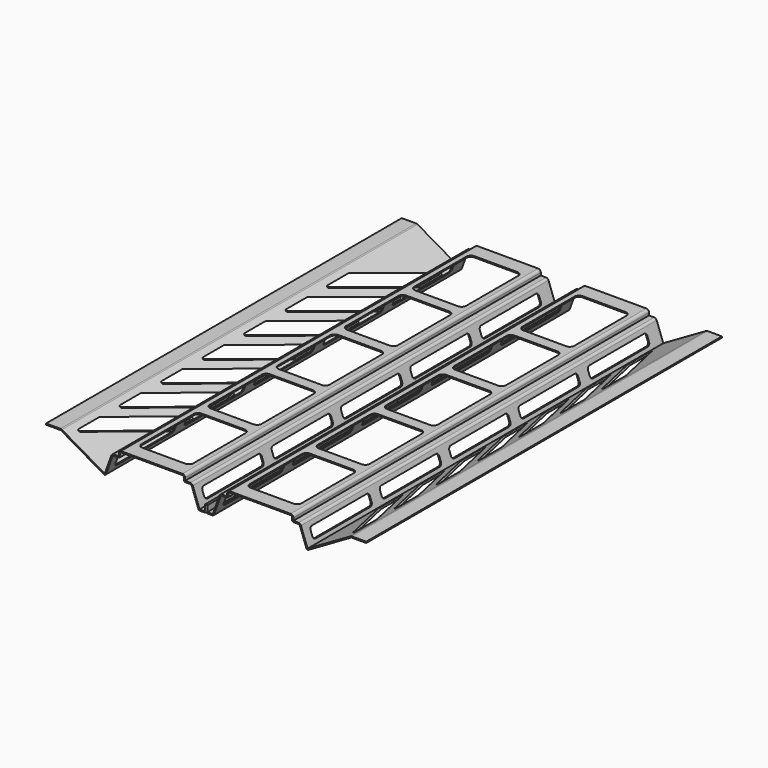
from build123d import *

# Parameters (mm, degrees)
F1_DEPTH  = 300
F3_DEPTH  = 25
F7_DEPTH  = 35
F11_START = -69
F11_DEPTH = 161
F12_START = 69
F12_DEPTH = 181


with BuildPart() as f1:
    # F0 (on Front) → F1 (new body)
    with BuildSketch(Plane.XZ):
        with BuildLine():
            Line((-4.2997924618, 0), (-0.8, 0))
            ThreePointArc((-0.8, 0), (-0.2343145751, 0.2343145751), (0, 0.8))
            Line((0, 0.8), (0, 4.9041542225))
            Line((0, 4.9041542225), (-0.8, 4.9041542225))
            Line((-0.8, 4.9041542225), (-0.8, 0.8))
            Line((-0.8, 0.8), (-4.4398339694, 0.8))
            Line((-4.4398339694, 0.8), (-9.0087608208, 13.3530233553))
            ThreePointArc((-9.0087608208, 13.3530233553), (-9.6677699528, 14.211860777), (-10.7002075382, 14.5373870973))
            Line((-10.7002075382, 14.5373870973), (-14.2, 14.5373870973))
            Line((-14.2, 14.5373870973), (-14.2, 16.3205080757))
            ThreePointArc((-14.2, 16.3205080757), (-14.7272077939, 17.5933002818), (-16, 18.1205080757))
            Line((-16, 18.1205080757), (-57, 18.1205080757))
            ThreePointArc((-57, 18.1205080757), (-58.2727922061, 17.5933002818), (-58.8, 16.3205080757))
            Line((-58.8, 16.3205080757), (-58.8, 14.5373870973))
            Line((-58.8, 14.5373870973), (-62.2997924618, 14.5373870973))
            ThreePointArc((-62.2997924618, 14.5373870973), (-63.3322300472, 14.211860777), (-63.9912391792, 13.3530233553))
            Line((-63.9912391792, 13.3530233553), (-68.425671109, 1.1695217601))
            Line((-68.425671109, 1.1695217601), (-97.3679491924, 17.8793538025))
            ThreePointArc((-97.3679491924, 17.8793538025), (-97.8020749112, 18.059174563), (-98.2679491924, 18.1205080757))
            Line((-98.2679491924, 18.1205080757), (-108, 18.1205080757))
            Line((-108, 18.1205080757), (-108, 17.3205080757))
            Line((-108, 17.3205080757), (-98.2679491924, 17.3205080757))
            ThreePointArc((-98.2679491924, 17.3205080757), (-98.0091301473, 17.286433902), (-97.7679491924, 17.1865334795))
            Line((-97.7679491924, 17.1865334795), (-69.0320888862, 0.5958767963))
            ThreePointArc((-69.0320888862, 0.5958767963), (-68.1900687429, 0.5222095793), (-67.5923962655, 1.1198820568))
            Line((-67.5923962655, 1.1198820568), (-63.2394850826, 13.0794072406))
            ThreePointArc((-63.2394850826, 13.0794072406), (-62.8733688981, 13.5565391416), (-62.2997924618, 13.7373870973))
            Line((-62.2997924618, 13.7373870973), (-59, 13.7373870973))
            ThreePointArc((-59, 13.7373870973), (-58.2928932188, 14.0302803161), (-58, 14.7373870973))
            Line((-58, 14.7373870973), (-58, 16.3205080757))
            ThreePointArc((-58, 16.3205080757), (-57.7071067812, 17.0276148569), (-57, 17.3205080757))
            Line((-57, 17.3205080757), (-16, 17.3205080757))
            ThreePointArc((-16, 17.3205080757), (-15.2928932188, 17.0276148569), (-15, 16.3205080757))
            Line((-15, 16.3205080757), (-15, 14.7373870973))
            ThreePointArc((-15, 14.7373870973), (-14.7071067812, 14.0302803161), (-14, 13.7373870973))
            Line((-14, 13.7373870973), (-10.7002075382, 13.7373870973))
            ThreePointArc((-10.7002075382, 13.7373870973), (-10.1266311019, 13.5565391416), (-9.7605149174, 13.0794072406))
            Line((-9.7605149174, 13.0794072406), (-5.2394850826, 0.6579798567))
            ThreePointArc((-5.2394850826, 0.6579798567), (-4.8733688981, 0.1808479557), (-4.2997924618, 0))
        make_face()
    extrude(amount=F1_DEPTH)

    # F2 (on face) → F3 (cut)
    with BuildSketch(Plane.XY.offset(18.1205080757)):
        with BuildLine():
            Line((-51, -60), (-22, -60))
            ThreePointArc((-22, -60), (-19.8786796564, -59.1213203436), (-19, -57))
            Line((-19, -57), (-19, -13))
            ThreePointArc((-19, -13), (-19.8786796564, -10.8786796564), (-22, -10))
            Line((-22, -10), (-51, -10))
            ThreePointArc((-51, -10), (-53.1213203436, -10.8786796564), (-54, -13))
            Line((-54, -13), (-54, -57))
            ThreePointArc((-54, -57), (-53.1213203436, -59.1213203436), (-51, -60))
        make_face()
        with BuildLine():
            ThreePointArc((-19, -70.5), (-19.8786796564, -68.3786796564), (-22, -67.5))
            Line((-22, -67.5), (-51, -67.5))
            ThreePointArc((-51, -67.5), (-53.1213203436, -68.3786796564), (-54, -70.5))
            Line((-54, -70.5), (-54, -114.5))
            ThreePointArc((-54, -114.5), (-53.1213203436, -116.6213203436), (-51, -117.5))
            Line((-51, -117.5), (-22, -117.5))
            ThreePointArc((-22, -117.5), (-19.8786796564, -116.6213203436), (-19, -114.5))
            Line((-19, -114.5), (-19, -70.5))
        make_face()
        with BuildLine():
            ThreePointArc((-19, -128), (-19.8786796564, -125.8786796564), (-22, -125))
            Line((-22, -125), (-51, -125))
            ThreePointArc((-51, -125), (-53.1213203436, -125.8786796564), (-54, -128))
            Line((-54, -128), (-54, -172))
            ThreePointArc((-54, -172), (-53.1213203436, -174.1213203436), (-51, -175))
            Line((-51, -175), (-22, -175))
            ThreePointArc((-22, -175), (-19.8786796564, -174.1213203436), (-19, -172))
            Line((-19, -172), (-19, -128))
        make_face()
        with BuildLine():
            ThreePointArc((-19, -185.5), (-19.8786796564, -183.3786796564), (-22, -182.5))
            Line((-22, -182.5), (-51, -182.5))
            ThreePointArc((-51, -182.5), (-53.1213203436, -183.3786796564), (-54, -185.5))
            Line((-54, -185.5), (-54, -229.5))
            ThreePointArc((-54, -229.5), (-53.1213203436, -231.6213203436), (-51, -232.5))
            Line((-51, -232.5), (-22, -232.5))
            ThreePointArc((-22, -232.5), (-19.8786796564, -231.6213203436), (-19, -229.5))
            Line((-19, -229.5), (-19, -185.5))
        make_face()
        with BuildLine():
            ThreePointArc((-19, -243), (-19.8786796564, -240.8786796564), (-22, -240))
            Line((-22, -240), (-51, -240))
            ThreePointArc((-51, -240), (-53.1213203436, -240.8786796564), (-54, -243))
            Line((-54, -243), (-54, -287))
            ThreePointArc((-54, -287), (-53.1213203436, -289.1213203436), (-51, -290))
            Line((-51, -290), (-22, -290))
            ThreePointArc((-22, -290), (-19.8786796564, -289.1213203436), (-19, -287))
            Line((-19, -287), (-19, -243))
        make_face()
    extrude(amount=-F3_DEPTH, mode=Mode.SUBTRACT)

    # F6 (on offset) → F7 (cut, symmetric)
    with BuildSketch(Plane.YZ.offset(-36.5)):
        with BuildLine():
            Line((-60, 8.6545602513), (-60, 5.4984631039))
            add(Edge.make_bspline(
                [(-60, 5.4984631039), (-60, 3.6190778624), (-58, 3.6190778624)],
                knots=[3.1415926536, 3.1415926536, 3.1415926536, 4.7123889804, 4.7123889804, 4.7123889804], degree=2, weights=[1, 0.7071067812, 1]))
            Line((-58, 3.6190778624), (-12, 3.6190778624))
            add(Edge.make_bspline(
                [(-12, 3.6190778624), (-10, 3.6190778624), (-10, 5.4984631039)],
                knots=[4.7123889804, 4.7123889804, 4.7123889804, 6.2831853072, 6.2831853072, 6.2831853072], degree=2, weights=[1, 0.7071067812, 1]))
            Line((-10, 5.4984631039), (-10, 8.6545602513))
            add(Edge.make_bspline(
                [(-10, 8.6545602513), (-10, 10.5339454929), (-12, 10.5339454929)],
                knots=[0, 0, 0, 1.5707963268, 1.5707963268, 1.5707963268], degree=2, weights=[1, 0.7071067812, 1]))
            Line((-12, 10.5339454929), (-58, 10.5339454929))
            add(Edge.make_bspline(
                [(-58, 10.5339454929), (-60, 10.5339454929), (-60, 8.6545602513)],
                knots=[1.5707963268, 1.5707963268, 1.5707963268, 3.1415926536, 3.1415926536, 3.1415926536], degree=2, weights=[1, 0.7071067812, 1]))
        make_face()
        with BuildLine():
            Line((-116.5, 3.6190778624), (-70.5, 3.6190778624))
            add(Edge.make_bspline(
                [(-70.5, 3.6190778624), (-68.5, 3.6190778624), (-68.5, 5.4984631039)],
                knots=[4.7123889804, 4.7123889804, 4.7123889804, 6.2831853072, 6.2831853072, 6.2831853072], degree=2, weights=[1, 0.7071067812, 1]))
            Line((-68.5, 5.4984631039), (-68.5, 8.6545602513))
            add(Edge.make_bspline(
                [(-68.5, 8.6545602513), (-68.5, 10.5339454929), (-70.5, 10.5339454929)],
                knots=[0, 0, 0, 1.5707963268, 1.5707963268, 1.5707963268], degree=2, weights=[1, 0.7071067812, 1]))
            Line((-70.5, 10.5339454929), (-116.5, 10.5339454929))
            add(Edge.make_bspline(
                [(-116.5, 10.5339454929), (-118.5, 10.5339454929), (-118.5, 8.6545602513)],
                knots=[1.5707963268, 1.5707963268, 1.5707963268, 3.1415926536, 3.1415926536, 3.1415926536], degree=2, weights=[1, 0.7071067812, 1]))
            Line((-118.5, 8.6545602513), (-118.5, 5.4984631039))
            add(Edge.make_bspline(
                [(-118.5, 5.4984631039), (-118.5, 3.6190778624), (-116.5, 3.6190778624)],
                knots=[3.1415926536, 3.1415926536, 3.1415926536, 4.7123889804, 4.7123889804, 4.7123889804], degree=2, weights=[1, 0.7071067812, 1]))
        make_face()
        with BuildLine():
            Line((-175, 3.6190778624), (-129, 3.6190778624))
            add(Edge.make_bspline(
                [(-129, 3.6190778624), (-127, 3.6190778624), (-127, 5.4984631039)],
                knots=[4.7123889804, 4.7123889804, 4.7123889804, 6.2831853072, 6.2831853072, 6.2831853072], degree=2, weights=[1, 0.7071067812, 1]))
            Line((-127, 5.4984631039), (-127, 8.6545602513))
            add(Edge.make_bspline(
                [(-127, 8.6545602513), (-127, 10.5339454929), (-129, 10.5339454929)],
                knots=[0, 0, 0, 1.5707963268, 1.5707963268, 1.5707963268], degree=2, weights=[1, 0.7071067812, 1]))
            Line((-129, 10.5339454929), (-175, 10.5339454929))
            add(Edge.make_bspline(
                [(-175, 10.5339454929), (-177, 10.5339454929), (-177, 8.6545602513)],
                knots=[1.5707963268, 1.5707963268, 1.5707963268, 3.1415926536, 3.1415926536, 3.1415926536], degree=2, weights=[1, 0.7071067812, 1]))
            Line((-177, 8.6545602513), (-177, 5.4984631039))
            add(Edge.make_bspline(
                [(-177, 5.4984631039), (-177, 3.6190778624), (-175, 3.6190778624)],
                knots=[3.1415926536, 3.1415926536, 3.1415926536, 4.7123889804, 4.7123889804, 4.7123889804], degree=2, weights=[1, 0.7071067812, 1]))
        make_face()
        with BuildLine():
            Line((-233.5, 3.6190778624), (-187.5, 3.6190778624))
            add(Edge.make_bspline(
                [(-187.5, 3.6190778624), (-185.5, 3.6190778624), (-185.5, 5.4984631039)],
                knots=[4.7123889804, 4.7123889804, 4.7123889804, 6.2831853072, 6.2831853072, 6.2831853072], degree=2, weights=[1, 0.7071067812, 1]))
            Line((-185.5, 5.4984631039), (-185.5, 8.6545602513))
            add(Edge.make_bspline(
                [(-185.5, 8.6545602513), (-185.5, 10.5339454929), (-187.5, 10.5339454929)],
                knots=[0, 0, 0, 1.5707963268, 1.5707963268, 1.5707963268], degree=2, weights=[1, 0.7071067812, 1]))
            Line((-187.5, 10.5339454929), (-233.5, 10.5339454929))
            add(Edge.make_bspline(
                [(-233.5, 10.5339454929), (-235.5, 10.5339454929), (-235.5, 8.6545602513)],
                knots=[1.5707963268, 1.5707963268, 1.5707963268, 3.1415926536, 3.1415926536, 3.1415926536], degree=2, weights=[1, 0.7071067812, 1]))
            Line((-235.5, 8.6545602513), (-235.5, 5.4984631039))
            add(Edge.make_bspline(
                [(-235.5, 5.4984631039), (-235.5, 3.6190778624), (-233.5, 3.6190778624)],
                knots=[3.1415926536, 3.1415926536, 3.1415926536, 4.7123889804, 4.7123889804, 4.7123889804], degree=2, weights=[1, 0.7071067812, 1]))
        make_face()
        with BuildLine():
            Line((-292, 3.6190778624), (-246, 3.6190778624))
            add(Edge.make_bspline(
                [(-246, 3.6190778624), (-244, 3.6190778624), (-244, 5.4984631039)],
                knots=[4.7123889804, 4.7123889804, 4.7123889804, 6.2831853072, 6.2831853072, 6.2831853072], degree=2, weights=[1, 0.7071067812, 1]))
            Line((-244, 5.4984631039), (-244, 8.6545602513))
            add(Edge.make_bspline(
                [(-244, 8.6545602513), (-244, 10.5339454929), (-246, 10.5339454929)],
                knots=[0, 0, 0, 1.5707963268, 1.5707963268, 1.5707963268], degree=2, weights=[1, 0.7071067812, 1]))
            Line((-246, 10.5339454929), (-292, 10.5339454929))
            add(Edge.make_bspline(
                [(-292, 10.5339454929), (-294, 10.5339454929), (-294, 8.6545602513)],
                knots=[1.5707963268, 1.5707963268, 1.5707963268, 3.1415926536, 3.1415926536, 3.1415926536], degree=2, weights=[1, 0.7071067812, 1]))
            Line((-294, 8.6545602513), (-294, 5.4984631039))
            add(Edge.make_bspline(
                [(-294, 5.4984631039), (-294, 3.6190778624), (-292, 3.6190778624)],
                knots=[3.1415926536, 3.1415926536, 3.1415926536, 4.7123889804, 4.7123889804, 4.7123889804], degree=2, weights=[1, 0.7071067812, 1]))
        make_face()
    extrude(amount=F7_DEPTH, both=True, mode=Mode.SUBTRACT)

    # F8: F1 across plane


with BuildPart() as f1_1:
    add(f1.part)
    add(f1.part.mirror(Plane.YZ))

    # F10 (on Right) → F11 (cut)
    with BuildSketch(Plane.YZ.offset(F11_START)):
        with BuildLine():
            add(Edge.make_bspline(
                [(-272.6965940894, 15.6312813296), (-272.9117040335, 15.6865334795), (-273.1535376297, 15.6865334795)],
                knots=[4.2378329981, 4.2378329981, 4.2378329981, 4.7123889804, 4.7123889804, 4.7123889804], degree=2, weights=[1, 0.9719814042, 1]))
            Line((-273.1535376297, 15.6865334795), (-290.6611710527, 15.6865334795))
            add(Edge.make_bspline(
                [(-290.6611710527, 15.6865334795), (-291.4481637237, 15.6865334795), (-291.633152457, 15.3040623587), (-291.8181411902, 14.921591238), (-291.1181145931, 14.7417856293)],
                knots=[4.7123889804, 4.7123889804, 4.7123889804, 6.045907316, 6.045907316, 7.3794256517, 7.3794256517, 7.3794256517], degree=2, weights=[1, 0.7858300575, 1, 0.7858300575, 1]))
            Line((-291.1181145931, 14.7417856293), (-242.0996517228, 2.1511289461))
            add(Edge.make_bspline(
                [(-242.0996517228, 2.1511289461), (-241.8845417787, 2.0958767963), (-241.6427081824, 2.0958767963)],
                knots=[1.0962403445, 1.0962403445, 1.0962403445, 1.5707963268, 1.5707963268, 1.5707963268], degree=2, weights=[1, 0.9719814042, 1]))
            Line((-241.6427081824, 2.0958767963), (-224.1350747595, 2.0958767963))
            add(Edge.make_bspline(
                [(-224.1350747595, 2.0958767963), (-223.3480820884, 2.0958767963), (-223.1630933552, 2.478347917), (-222.978104622, 2.8608190378), (-223.6781312191, 3.0406246465)],
                knots=[1.5707963268, 1.5707963268, 1.5707963268, 2.9043146625, 2.9043146625, 4.2378329981, 4.2378329981, 4.2378329981], degree=2, weights=[1, 0.7858300575, 1, 0.7858300575, 1]))
            Line((-223.6781312191, 3.0406246465), (-272.6965940894, 15.6312813296))
        make_face()
        with BuildLine():
            add(Edge.make_bspline(
                [(-237.6965940894, 15.6312813296), (-237.9117040335, 15.6865334795), (-238.1535376297, 15.6865334795)],
                knots=[4.2378329981, 4.2378329981, 4.2378329981, 4.7123889804, 4.7123889804, 4.7123889804], degree=2, weights=[1, 0.9719814042, 1]))
            Line((-238.1535376297, 15.6865334795), (-255.6611710527, 15.6865334795))
            add(Edge.make_bspline(
                [(-255.6611710527, 15.6865334795), (-256.4481637237, 15.6865334795), (-256.633152457, 15.3040623587), (-256.8181411902, 14.921591238), (-256.1181145931, 14.7417856293)],
                knots=[4.7123889804, 4.7123889804, 4.7123889804, 6.045907316, 6.045907316, 7.3794256517, 7.3794256517, 7.3794256517], degree=2, weights=[1, 0.7858300575, 1, 0.7858300575, 1]))
            Line((-256.1181145931, 14.7417856293), (-207.0996517228, 2.1511289461))
            add(Edge.make_bspline(
                [(-207.0996517228, 2.1511289461), (-206.8845417787, 2.0958767963), (-206.6427081824, 2.0958767963)],
                knots=[1.0962403445, 1.0962403445, 1.0962403445, 1.5707963268, 1.5707963268, 1.5707963268], degree=2, weights=[1, 0.9719814042, 1]))
            Line((-206.6427081824, 2.0958767963), (-189.1350747595, 2.0958767963))
            add(Edge.make_bspline(
                [(-189.1350747595, 2.0958767963), (-188.3480820884, 2.0958767963), (-188.1630933552, 2.478347917), (-187.978104622, 2.8608190378), (-188.6781312191, 3.0406246465)],
                knots=[1.5707963268, 1.5707963268, 1.5707963268, 2.9043146625, 2.9043146625, 4.2378329981, 4.2378329981, 4.2378329981], degree=2, weights=[1, 0.7858300575, 1, 0.7858300575, 1]))
            Line((-188.6781312191, 3.0406246465), (-237.6965940894, 15.6312813296))
        make_face()
        with BuildLine():
            add(Edge.make_bspline(
                [(-202.6965940894, 15.6312813296), (-202.9117040335, 15.6865334795), (-203.1535376297, 15.6865334795)],
                knots=[4.2378329981, 4.2378329981, 4.2378329981, 4.7123889804, 4.7123889804, 4.7123889804], degree=2, weights=[1, 0.9719814042, 1]))
            Line((-203.1535376297, 15.6865334795), (-220.6611710527, 15.6865334795))
            add(Edge.make_bspline(
                [(-220.6611710527, 15.6865334795), (-221.4481637237, 15.6865334795), (-221.633152457, 15.3040623587), (-221.8181411902, 14.921591238), (-221.1181145931, 14.7417856293)],
                knots=[4.7123889804, 4.7123889804, 4.7123889804, 6.045907316, 6.045907316, 7.3794256517, 7.3794256517, 7.3794256517], degree=2, weights=[1, 0.7858300575, 1, 0.7858300575, 1]))
            Line((-221.1181145931, 14.7417856293), (-172.0996517228, 2.1511289461))
            add(Edge.make_bspline(
                [(-172.0996517228, 2.1511289461), (-171.8845417787, 2.0958767963), (-171.6427081824, 2.0958767963)],
                knots=[1.0962403445, 1.0962403445, 1.0962403445, 1.5707963268, 1.5707963268, 1.5707963268], degree=2, weights=[1, 0.9719814042, 1]))
            Line((-171.6427081824, 2.0958767963), (-154.1350747595, 2.0958767963))
            add(Edge.make_bspline(
                [(-154.1350747595, 2.0958767963), (-153.3480820884, 2.0958767963), (-153.1630933552, 2.478347917), (-152.978104622, 2.8608190378), (-153.6781312191, 3.0406246465)],
                knots=[1.5707963268, 1.5707963268, 1.5707963268, 2.9043146625, 2.9043146625, 4.2378329981, 4.2378329981, 4.2378329981], degree=2, weights=[1, 0.7858300575, 1, 0.7858300575, 1]))
            Line((-153.6781312191, 3.0406246465), (-202.6965940894, 15.6312813296))
        make_face()
        with BuildLine():
            add(Edge.make_bspline(
                [(-167.6965940894, 15.6312813296), (-167.9117040335, 15.6865334795), (-168.1535376297, 15.6865334795)],
                knots=[4.2378329981, 4.2378329981, 4.2378329981, 4.7123889804, 4.7123889804, 4.7123889804], degree=2, weights=[1, 0.9719814042, 1]))
            Line((-168.1535376297, 15.6865334795), (-185.6611710527, 15.6865334795))
            add(Edge.make_bspline(
                [(-185.6611710527, 15.6865334795), (-186.4481637237, 15.6865334795), (-186.633152457, 15.3040623587), (-186.8181411902, 14.921591238), (-186.1181145931, 14.7417856293)],
                knots=[4.7123889804, 4.7123889804, 4.7123889804, 6.045907316, 6.045907316, 7.3794256517, 7.3794256517, 7.3794256517], degree=2, weights=[1, 0.7858300575, 1, 0.7858300575, 1]))
            Line((-186.1181145931, 14.7417856293), (-137.0996517228, 2.1511289461))
            add(Edge.make_bspline(
                [(-137.0996517228, 2.1511289461), (-136.8845417787, 2.0958767963), (-136.6427081824, 2.0958767963)],
                knots=[1.0962403445, 1.0962403445, 1.0962403445, 1.5707963268, 1.5707963268, 1.5707963268], degree=2, weights=[1, 0.9719814042, 1]))
            Line((-136.6427081824, 2.0958767963), (-119.1350747595, 2.0958767963))
            add(Edge.make_bspline(
                [(-119.1350747595, 2.0958767963), (-118.3480820884, 2.0958767963), (-118.1630933552, 2.478347917), (-117.978104622, 2.8608190378), (-118.6781312191, 3.0406246465)],
                knots=[1.5707963268, 1.5707963268, 1.5707963268, 2.9043146625, 2.9043146625, 4.2378329981, 4.2378329981, 4.2378329981], degree=2, weights=[1, 0.7858300575, 1, 0.7858300575, 1]))
            Line((-118.6781312191, 3.0406246465), (-167.6965940894, 15.6312813296))
        make_face()
        with BuildLine():
            add(Edge.make_bspline(
                [(-132.6965940894, 15.6312813296), (-132.9117040335, 15.6865334795), (-133.1535376297, 15.6865334795)],
                knots=[4.2378329981, 4.2378329981, 4.2378329981, 4.7123889804, 4.7123889804, 4.7123889804], degree=2, weights=[1, 0.9719814042, 1]))
            Line((-133.1535376297, 15.6865334795), (-150.6611710527, 15.6865334795))
            add(Edge.make_bspline(
                [(-150.6611710527, 15.6865334795), (-151.4481637237, 15.6865334795), (-151.633152457, 15.3040623587), (-151.8181411902, 14.921591238), (-151.1181145931, 14.7417856293)],
                knots=[4.7123889804, 4.7123889804, 4.7123889804, 6.045907316, 6.045907316, 7.3794256517, 7.3794256517, 7.3794256517], degree=2, weights=[1, 0.7858300575, 1, 0.7858300575, 1]))
            Line((-151.1181145931, 14.7417856293), (-102.0996517228, 2.1511289461))
            add(Edge.make_bspline(
                [(-102.0996517228, 2.1511289461), (-101.8845417787, 2.0958767963), (-101.6427081824, 2.0958767963)],
                knots=[1.0962403445, 1.0962403445, 1.0962403445, 1.5707963268, 1.5707963268, 1.5707963268], degree=2, weights=[1, 0.9719814042, 1]))
            Line((-101.6427081824, 2.0958767963), (-84.1350747595, 2.0958767963))
            add(Edge.make_bspline(
                [(-84.1350747595, 2.0958767963), (-83.3480820884, 2.0958767963), (-83.1630933552, 2.478347917), (-82.978104622, 2.8608190378), (-83.6781312191, 3.0406246465)],
                knots=[1.5707963268, 1.5707963268, 1.5707963268, 2.9043146625, 2.9043146625, 4.2378329981, 4.2378329981, 4.2378329981], degree=2, weights=[1, 0.7858300575, 1, 0.7858300575, 1]))
            Line((-83.6781312191, 3.0406246465), (-132.6965940894, 15.6312813296))
        make_face()
        with BuildLine():
            add(Edge.make_bspline(
                [(-97.6965940894, 15.6312813296), (-97.9117040335, 15.6865334795), (-98.1535376297, 15.6865334795)],
                knots=[4.2378329981, 4.2378329981, 4.2378329981, 4.7123889804, 4.7123889804, 4.7123889804], degree=2, weights=[1, 0.9719814042, 1]))
            Line((-98.1535376297, 15.6865334795), (-115.6611710527, 15.6865334795))
            add(Edge.make_bspline(
                [(-115.6611710527, 15.6865334795), (-116.4481637237, 15.6865334795), (-116.633152457, 15.3040623587), (-116.8181411902, 14.921591238), (-116.1181145931, 14.7417856293)],
                knots=[4.7123889804, 4.7123889804, 4.7123889804, 6.045907316, 6.045907316, 7.3794256517, 7.3794256517, 7.3794256517], degree=2, weights=[1, 0.7858300575, 1, 0.7858300575, 1]))
            Line((-116.1181145931, 14.7417856293), (-67.0996517228, 2.1511289461))
            add(Edge.make_bspline(
                [(-67.0996517228, 2.1511289461), (-66.8845417787, 2.0958767963), (-66.6427081824, 2.0958767963)],
                knots=[1.0962403445, 1.0962403445, 1.0962403445, 1.5707963268, 1.5707963268, 1.5707963268], degree=2, weights=[1, 0.9719814042, 1]))
            Line((-66.6427081824, 2.0958767963), (-49.1350747595, 2.0958767963))
            add(Edge.make_bspline(
                [(-49.1350747595, 2.0958767963), (-48.3480820884, 2.0958767963), (-48.1630933552, 2.478347917), (-47.978104622, 2.8608190378), (-48.6781312191, 3.0406246465)],
                knots=[1.5707963268, 1.5707963268, 1.5707963268, 2.9043146625, 2.9043146625, 4.2378329981, 4.2378329981, 4.2378329981], degree=2, weights=[1, 0.7858300575, 1, 0.7858300575, 1]))
            Line((-48.6781312191, 3.0406246465), (-97.6965940894, 15.6312813296))
        make_face()
        with BuildLine():
            add(Edge.make_bspline(
                [(-62.6965940894, 15.6312813296), (-62.9117040335, 15.6865334795), (-63.1535376297, 15.6865334795)],
                knots=[4.2378329981, 4.2378329981, 4.2378329981, 4.7123889804, 4.7123889804, 4.7123889804], degree=2, weights=[1, 0.9719814042, 1]))
            Line((-63.1535376297, 15.6865334795), (-80.6611710527, 15.6865334795))
            add(Edge.make_bspline(
                [(-80.6611710527, 15.6865334795), (-81.4481637237, 15.6865334795), (-81.633152457, 15.3040623587), (-81.8181411902, 14.921591238), (-81.1181145931, 14.7417856293)],
                knots=[4.7123889804, 4.7123889804, 4.7123889804, 6.045907316, 6.045907316, 7.3794256517, 7.3794256517, 7.3794256517], degree=2, weights=[1, 0.7858300575, 1, 0.7858300575, 1]))
            Line((-81.1181145931, 14.7417856293), (-32.0996517228, 2.1511289461))
            add(Edge.make_bspline(
                [(-32.0996517228, 2.1511289461), (-31.8845417787, 2.0958767963), (-31.6427081824, 2.0958767963)],
                knots=[1.0962403445, 1.0962403445, 1.0962403445, 1.5707963268, 1.5707963268, 1.5707963268], degree=2, weights=[1, 0.9719814042, 1]))
            Line((-31.6427081824, 2.0958767963), (-14.1350747595, 2.0958767963))
            add(Edge.make_bspline(
                [(-14.1350747595, 2.0958767963), (-13.3480820884, 2.0958767963), (-13.1630933552, 2.478347917), (-12.978104622, 2.8608190378), (-13.6781312191, 3.0406246465)],
                knots=[1.5707963268, 1.5707963268, 1.5707963268, 2.9043146625, 2.9043146625, 4.2378329981, 4.2378329981, 4.2378329981], degree=2, weights=[1, 0.7858300575, 1, 0.7858300575, 1]))
            Line((-13.6781312191, 3.0406246465), (-62.6965940894, 15.6312813296))
        make_face()
    extrude(amount=-F11_DEPTH, mode=Mode.SUBTRACT)

    # F10 (on Right) → F12 (cut)
    with BuildSketch(Plane.YZ.offset(F12_START)):
        with BuildLine():
            add(Edge.make_bspline(
                [(-272.6965940894, 15.6312813296), (-272.9117040335, 15.6865334795), (-273.1535376297, 15.6865334795)],
                knots=[4.2378329981, 4.2378329981, 4.2378329981, 4.7123889804, 4.7123889804, 4.7123889804], degree=2, weights=[1, 0.9719814042, 1]))
            Line((-273.1535376297, 15.6865334795), (-290.6611710527, 15.6865334795))
            add(Edge.make_bspline(
                [(-290.6611710527, 15.6865334795), (-291.4481637237, 15.6865334795), (-291.633152457, 15.3040623587), (-291.8181411902, 14.921591238), (-291.1181145931, 14.7417856293)],
                knots=[4.7123889804, 4.7123889804, 4.7123889804, 6.045907316, 6.045907316, 7.3794256517, 7.3794256517, 7.3794256517], degree=2, weights=[1, 0.7858300575, 1, 0.7858300575, 1]))
            Line((-291.1181145931, 14.7417856293), (-242.0996517228, 2.1511289461))
            add(Edge.make_bspline(
                [(-242.0996517228, 2.1511289461), (-241.8845417787, 2.0958767963), (-241.6427081824, 2.0958767963)],
                knots=[1.0962403445, 1.0962403445, 1.0962403445, 1.5707963268, 1.5707963268, 1.5707963268], degree=2, weights=[1, 0.9719814042, 1]))
            Line((-241.6427081824, 2.0958767963), (-224.1350747595, 2.0958767963))
            add(Edge.make_bspline(
                [(-224.1350747595, 2.0958767963), (-223.3480820884, 2.0958767963), (-223.1630933552, 2.478347917), (-222.978104622, 2.8608190378), (-223.6781312191, 3.0406246465)],
                knots=[1.5707963268, 1.5707963268, 1.5707963268, 2.9043146625, 2.9043146625, 4.2378329981, 4.2378329981, 4.2378329981], degree=2, weights=[1, 0.7858300575, 1, 0.7858300575, 1]))
            Line((-223.6781312191, 3.0406246465), (-272.6965940894, 15.6312813296))
        make_face()
        with BuildLine():
            add(Edge.make_bspline(
                [(-237.6965940894, 15.6312813296), (-237.9117040335, 15.6865334795), (-238.1535376297, 15.6865334795)],
                knots=[4.2378329981, 4.2378329981, 4.2378329981, 4.7123889804, 4.7123889804, 4.7123889804], degree=2, weights=[1, 0.9719814042, 1]))
            Line((-238.1535376297, 15.6865334795), (-255.6611710527, 15.6865334795))
            add(Edge.make_bspline(
                [(-255.6611710527, 15.6865334795), (-256.4481637237, 15.6865334795), (-256.633152457, 15.3040623587), (-256.8181411902, 14.921591238), (-256.1181145931, 14.7417856293)],
                knots=[4.7123889804, 4.7123889804, 4.7123889804, 6.045907316, 6.045907316, 7.3794256517, 7.3794256517, 7.3794256517], degree=2, weights=[1, 0.7858300575, 1, 0.7858300575, 1]))
            Line((-256.1181145931, 14.7417856293), (-207.0996517228, 2.1511289461))
            add(Edge.make_bspline(
                [(-207.0996517228, 2.1511289461), (-206.8845417787, 2.0958767963), (-206.6427081824, 2.0958767963)],
                knots=[1.0962403445, 1.0962403445, 1.0962403445, 1.5707963268, 1.5707963268, 1.5707963268], degree=2, weights=[1, 0.9719814042, 1]))
            Line((-206.6427081824, 2.0958767963), (-189.1350747595, 2.0958767963))
            add(Edge.make_bspline(
                [(-189.1350747595, 2.0958767963), (-188.3480820884, 2.0958767963), (-188.1630933552, 2.478347917), (-187.978104622, 2.8608190378), (-188.6781312191, 3.0406246465)],
                knots=[1.5707963268, 1.5707963268, 1.5707963268, 2.9043146625, 2.9043146625, 4.2378329981, 4.2378329981, 4.2378329981], degree=2, weights=[1, 0.7858300575, 1, 0.7858300575, 1]))
            Line((-188.6781312191, 3.0406246465), (-237.6965940894, 15.6312813296))
        make_face()
        with BuildLine():
            add(Edge.make_bspline(
                [(-202.6965940894, 15.6312813296), (-202.9117040335, 15.6865334795), (-203.1535376297, 15.6865334795)],
                knots=[4.2378329981, 4.2378329981, 4.2378329981, 4.7123889804, 4.7123889804, 4.7123889804], degree=2, weights=[1, 0.9719814042, 1]))
            Line((-203.1535376297, 15.6865334795), (-220.6611710527, 15.6865334795))
            add(Edge.make_bspline(
                [(-220.6611710527, 15.6865334795), (-221.4481637237, 15.6865334795), (-221.633152457, 15.3040623587), (-221.8181411902, 14.921591238), (-221.1181145931, 14.7417856293)],
                knots=[4.7123889804, 4.7123889804, 4.7123889804, 6.045907316, 6.045907316, 7.3794256517, 7.3794256517, 7.3794256517], degree=2, weights=[1, 0.7858300575, 1, 0.7858300575, 1]))
            Line((-221.1181145931, 14.7417856293), (-172.0996517228, 2.1511289461))
            add(Edge.make_bspline(
                [(-172.0996517228, 2.1511289461), (-171.8845417787, 2.0958767963), (-171.6427081824, 2.0958767963)],
                knots=[1.0962403445, 1.0962403445, 1.0962403445, 1.5707963268, 1.5707963268, 1.5707963268], degree=2, weights=[1, 0.9719814042, 1]))
            Line((-171.6427081824, 2.0958767963), (-154.1350747595, 2.0958767963))
            add(Edge.make_bspline(
                [(-154.1350747595, 2.0958767963), (-153.3480820884, 2.0958767963), (-153.1630933552, 2.478347917), (-152.978104622, 2.8608190378), (-153.6781312191, 3.0406246465)],
                knots=[1.5707963268, 1.5707963268, 1.5707963268, 2.9043146625, 2.9043146625, 4.2378329981, 4.2378329981, 4.2378329981], degree=2, weights=[1, 0.7858300575, 1, 0.7858300575, 1]))
            Line((-153.6781312191, 3.0406246465), (-202.6965940894, 15.6312813296))
        make_face()
        with BuildLine():
            add(Edge.make_bspline(
                [(-167.6965940894, 15.6312813296), (-167.9117040335, 15.6865334795), (-168.1535376297, 15.6865334795)],
                knots=[4.2378329981, 4.2378329981, 4.2378329981, 4.7123889804, 4.7123889804, 4.7123889804], degree=2, weights=[1, 0.9719814042, 1]))
            Line((-168.1535376297, 15.6865334795), (-185.6611710527, 15.6865334795))
            add(Edge.make_bspline(
                [(-185.6611710527, 15.6865334795), (-186.4481637237, 15.6865334795), (-186.633152457, 15.3040623587), (-186.8181411902, 14.921591238), (-186.1181145931, 14.7417856293)],
                knots=[4.7123889804, 4.7123889804, 4.7123889804, 6.045907316, 6.045907316, 7.3794256517, 7.3794256517, 7.3794256517], degree=2, weights=[1, 0.7858300575, 1, 0.7858300575, 1]))
            Line((-186.1181145931, 14.7417856293), (-137.0996517228, 2.1511289461))
            add(Edge.make_bspline(
                [(-137.0996517228, 2.1511289461), (-136.8845417787, 2.0958767963), (-136.6427081824, 2.0958767963)],
                knots=[1.0962403445, 1.0962403445, 1.0962403445, 1.5707963268, 1.5707963268, 1.5707963268], degree=2, weights=[1, 0.9719814042, 1]))
            Line((-136.6427081824, 2.0958767963), (-119.1350747595, 2.0958767963))
            add(Edge.make_bspline(
                [(-119.1350747595, 2.0958767963), (-118.3480820884, 2.0958767963), (-118.1630933552, 2.478347917), (-117.978104622, 2.8608190378), (-118.6781312191, 3.0406246465)],
                knots=[1.5707963268, 1.5707963268, 1.5707963268, 2.9043146625, 2.9043146625, 4.2378329981, 4.2378329981, 4.2378329981], degree=2, weights=[1, 0.7858300575, 1, 0.7858300575, 1]))
            Line((-118.6781312191, 3.0406246465), (-167.6965940894, 15.6312813296))
        make_face()
        with BuildLine():
            add(Edge.make_bspline(
                [(-132.6965940894, 15.6312813296), (-132.9117040335, 15.6865334795), (-133.1535376297, 15.6865334795)],
                knots=[4.2378329981, 4.2378329981, 4.2378329981, 4.7123889804, 4.7123889804, 4.7123889804], degree=2, weights=[1, 0.9719814042, 1]))
            Line((-133.1535376297, 15.6865334795), (-150.6611710527, 15.6865334795))
            add(Edge.make_bspline(
                [(-150.6611710527, 15.6865334795), (-151.4481637237, 15.6865334795), (-151.633152457, 15.3040623587), (-151.8181411902, 14.921591238), (-151.1181145931, 14.7417856293)],
                knots=[4.7123889804, 4.7123889804, 4.7123889804, 6.045907316, 6.045907316, 7.3794256517, 7.3794256517, 7.3794256517], degree=2, weights=[1, 0.7858300575, 1, 0.7858300575, 1]))
            Line((-151.1181145931, 14.7417856293), (-102.0996517228, 2.1511289461))
            add(Edge.make_bspline(
                [(-102.0996517228, 2.1511289461), (-101.8845417787, 2.0958767963), (-101.6427081824, 2.0958767963)],
                knots=[1.0962403445, 1.0962403445, 1.0962403445, 1.5707963268, 1.5707963268, 1.5707963268], degree=2, weights=[1, 0.9719814042, 1]))
            Line((-101.6427081824, 2.0958767963), (-84.1350747595, 2.0958767963))
            add(Edge.make_bspline(
                [(-84.1350747595, 2.0958767963), (-83.3480820884, 2.0958767963), (-83.1630933552, 2.478347917), (-82.978104622, 2.8608190378), (-83.6781312191, 3.0406246465)],
                knots=[1.5707963268, 1.5707963268, 1.5707963268, 2.9043146625, 2.9043146625, 4.2378329981, 4.2378329981, 4.2378329981], degree=2, weights=[1, 0.7858300575, 1, 0.7858300575, 1]))
            Line((-83.6781312191, 3.0406246465), (-132.6965940894, 15.6312813296))
        make_face()
        with BuildLine():
            add(Edge.make_bspline(
                [(-97.6965940894, 15.6312813296), (-97.9117040335, 15.6865334795), (-98.1535376297, 15.6865334795)],
                knots=[4.2378329981, 4.2378329981, 4.2378329981, 4.7123889804, 4.7123889804, 4.7123889804], degree=2, weights=[1, 0.9719814042, 1]))
            Line((-98.1535376297, 15.6865334795), (-115.6611710527, 15.6865334795))
            add(Edge.make_bspline(
                [(-115.6611710527, 15.6865334795), (-116.4481637237, 15.6865334795), (-116.633152457, 15.3040623587), (-116.8181411902, 14.921591238), (-116.1181145931, 14.7417856293)],
                knots=[4.7123889804, 4.7123889804, 4.7123889804, 6.045907316, 6.045907316, 7.3794256517, 7.3794256517, 7.3794256517], degree=2, weights=[1, 0.7858300575, 1, 0.7858300575, 1]))
            Line((-116.1181145931, 14.7417856293), (-67.0996517228, 2.1511289461))
            add(Edge.make_bspline(
                [(-67.0996517228, 2.1511289461), (-66.8845417787, 2.0958767963), (-66.6427081824, 2.0958767963)],
                knots=[1.0962403445, 1.0962403445, 1.0962403445, 1.5707963268, 1.5707963268, 1.5707963268], degree=2, weights=[1, 0.9719814042, 1]))
            Line((-66.6427081824, 2.0958767963), (-49.1350747595, 2.0958767963))
            add(Edge.make_bspline(
                [(-49.1350747595, 2.0958767963), (-48.3480820884, 2.0958767963), (-48.1630933552, 2.478347917), (-47.978104622, 2.8608190378), (-48.6781312191, 3.0406246465)],
                knots=[1.5707963268, 1.5707963268, 1.5707963268, 2.9043146625, 2.9043146625, 4.2378329981, 4.2378329981, 4.2378329981], degree=2, weights=[1, 0.7858300575, 1, 0.7858300575, 1]))
            Line((-48.6781312191, 3.0406246465), (-97.6965940894, 15.6312813296))
        make_face()
        with BuildLine():
            add(Edge.make_bspline(
                [(-62.6965940894, 15.6312813296), (-62.9117040335, 15.6865334795), (-63.1535376297, 15.6865334795)],
                knots=[4.2378329981, 4.2378329981, 4.2378329981, 4.7123889804, 4.7123889804, 4.7123889804], degree=2, weights=[1, 0.9719814042, 1]))
            Line((-63.1535376297, 15.6865334795), (-80.6611710527, 15.6865334795))
            add(Edge.make_bspline(
                [(-80.6611710527, 15.6865334795), (-81.4481637237, 15.6865334795), (-81.633152457, 15.3040623587), (-81.8181411902, 14.921591238), (-81.1181145931, 14.7417856293)],
                knots=[4.7123889804, 4.7123889804, 4.7123889804, 6.045907316, 6.045907316, 7.3794256517, 7.3794256517, 7.3794256517], degree=2, weights=[1, 0.7858300575, 1, 0.7858300575, 1]))
            Line((-81.1181145931, 14.7417856293), (-32.0996517228, 2.1511289461))
            add(Edge.make_bspline(
                [(-32.0996517228, 2.1511289461), (-31.8845417787, 2.0958767963), (-31.6427081824, 2.0958767963)],
                knots=[1.0962403445, 1.0962403445, 1.0962403445, 1.5707963268, 1.5707963268, 1.5707963268], degree=2, weights=[1, 0.9719814042, 1]))
            Line((-31.6427081824, 2.0958767963), (-14.1350747595, 2.0958767963))
            add(Edge.make_bspline(
                [(-14.1350747595, 2.0958767963), (-13.3480820884, 2.0958767963), (-13.1630933552, 2.478347917), (-12.978104622, 2.8608190378), (-13.6781312191, 3.0406246465)],
                knots=[1.5707963268, 1.5707963268, 1.5707963268, 2.9043146625, 2.9043146625, 4.2378329981, 4.2378329981, 4.2378329981], degree=2, weights=[1, 0.7858300575, 1, 0.7858300575, 1]))
            Line((-13.6781312191, 3.0406246465), (-62.6965940894, 15.6312813296))
        make_face()
    extrude(amount=F12_DEPTH, mode=Mode.SUBTRACT)


solid = f1_1.part
